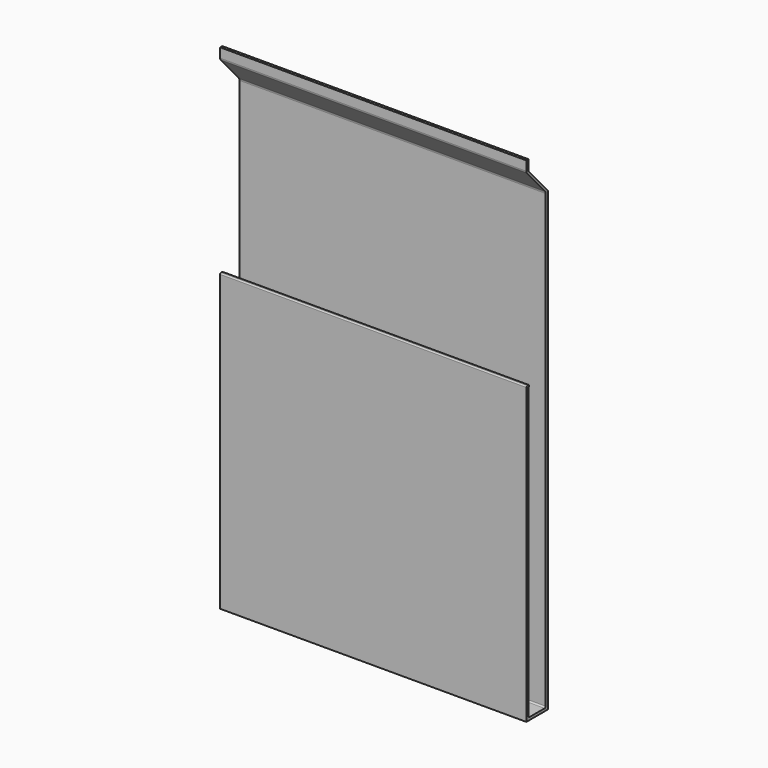
from build123d import *

# Parameters (mm, degrees)
PAD002_DEPTH = 57


with BuildPart() as part:
    # Sketch005 → Pad002 (new body)
    with BuildSketch(Plane.YZ):
        with BuildLine():
            Line((-10, 10), (-15, 10))
            Line((-15, 10), (-15, 64.8))
            ThreePointArc((-14.8, 65), (-14.941421, 64.941421), (-15, 64.8))
            Line((-14.8, 65), (-14.5, 65))
            ThreePointArc((-14.374278, 64.814305), (-14.387874, 64.940506), (-14.5, 65))
            Line((-14.411417, 64.721457), (-14.374278, 64.814305))
            ThreePointArc((-14.411417, 64.721457), (-14.477653, 64.495696), (-14.5, 64.261484))
            Line((-14.5, 64.261484), (-14.5, 10.75))
            ThreePointArc((-14.5, 10.75), (-14.426777, 10.573223), (-14.25, 10.5))
            Line((-14.25, 10.5), (-10.75, 10.5))
            ThreePointArc((-10.75, 10.5), (-10.573223, 10.573223), (-10.5, 10.75))
            Line((-10.5, 10.75), (-10.5, 94.75))
            ThreePointArc((-10.5, 94.75), (-10.543246, 94.983405), (-10.667241, 95.185824))
            Line((-14.848271, 99.831412), (-10.667241, 95.185824))
            ThreePointArc((-15, 100.226812), (-14.960766, 100.015056), (-14.848271, 99.831412))
            Line((-15, 102), (-15, 100.226812))
            Line((-15, 102), (-14.5, 102))
            Line((-14.5, 102), (-14.5, 100))
            Line((-14.5, 100), (-10, 95))
            Line((-10, 10), (-10, 95))
        make_face()
    extrude(amount=PAD002_DEPTH)


solid = part.part
